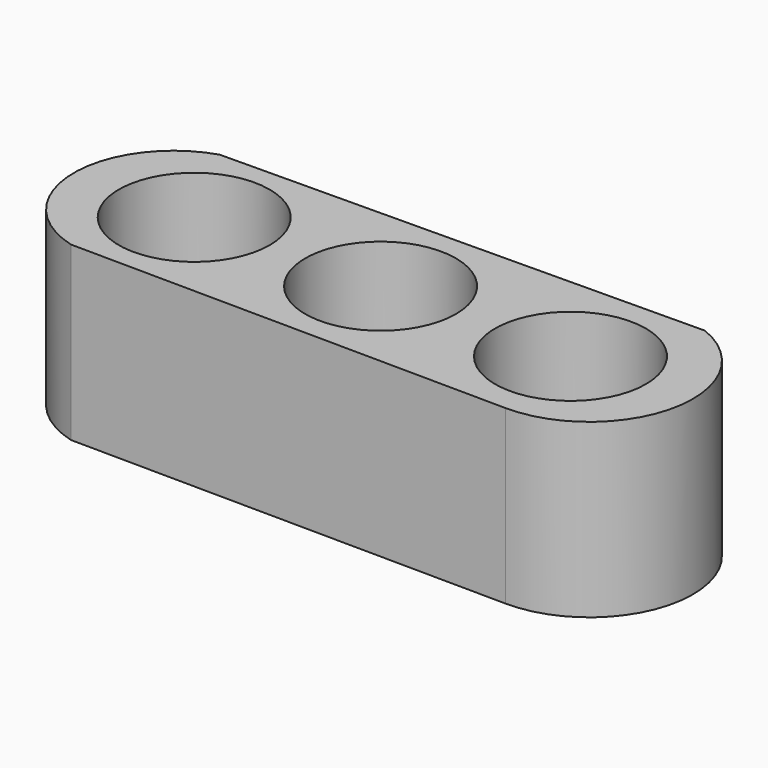
from build123d import *

# Parameters (mm, degrees)
F0_R     = 10.95
F1_DEPTH = 25


with BuildPart() as f1:
    # F0 (on Top) → F1 (new body)
    with BuildSketch(Plane.XY):
        with BuildLine():
            Line((35.56427, 14.449832), (-34.43294, 13.824858))
            ThreePointArc((-34.43294, 13.824858), (-44.553886, -0.307486), (-33.786915, -13.954061))
            Line((-33.786915, -13.954061), (29.790804, -14.531257))
            ThreePointArc((29.790804, -14.531257), (44.676553, -2.431096), (35.56427, 14.449832))
        make_face()
        with Locations((-27.068295, 0)):
            Circle(F0_R, mode=Mode.SUBTRACT)
        Circle(F0_R, mode=Mode.SUBTRACT)
        with Locations((27.585113, 0)):
            Circle(F0_R, mode=Mode.SUBTRACT)
    extrude(amount=F1_DEPTH)


solid = f1.part
